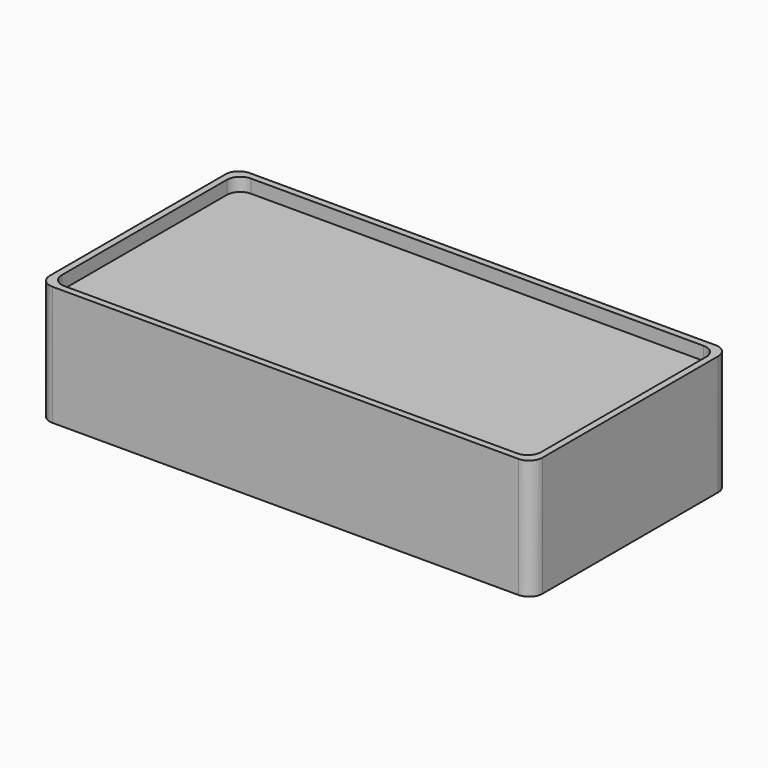
from build123d import *

# Parameters (mm, degrees)
F0_W     = 74
F0_H     = 37
F1_DEPTH = 16
F2_T     = -1.5
F3_W     = 74
F3_H     = 37
F3_W_2   = 72
F3_H_2   = 35
F4_DEPTH = 2
F5_R     = 2


with BuildPart() as f1:
    # F0 (on Top) → F1 (new body)
    with BuildSketch(Plane.XY):
        Rectangle(F0_W, F0_H)
    extrude(amount=F1_DEPTH)

    # F2 (hollow: no face is removed)
    offset(amount=F2_T, mode=Mode.SUBTRACT)

    # F3 (on face) → F4 (join)
    with BuildSketch(Plane.XY.offset(16)):
        Rectangle(F3_W, F3_H)
        Rectangle(F3_W_2, F3_H_2, mode=Mode.SUBTRACT)
    extrude(amount=F4_DEPTH)

    # F5
    f5_edges = [f1.edges().sort_by_distance(p)[0] for p in [
        (-37, -18.5, 9),
        (36, 17.5, 17),
        (-36, 17.5, 17),
        (-36, -17.5, 17),
        (36, -17.5, 17),
        (37, -18.5, 9),
        (-37, 18.5, 9),
        (37, 18.5, 9),
    ]]
    fillet(f5_edges, radius=F5_R)


solid = f1.part
